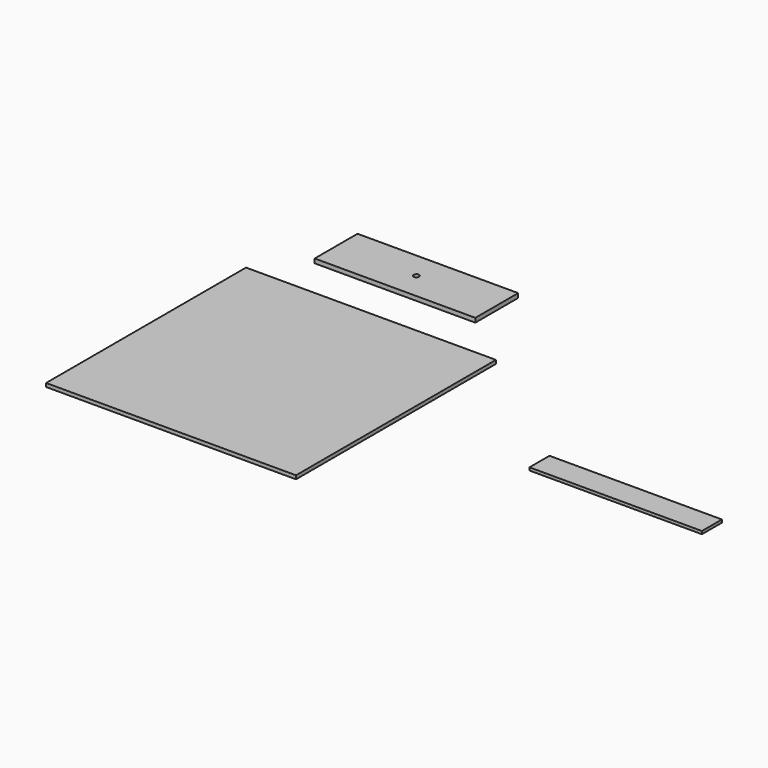
from build123d import *

# Parameters (mm, degrees)
F1_DEPTH = 10
F2_W     = 483
F2_H     = 70
F3_DEPTH = 8
F4_W     = 450
F4_H     = 150
F5_DEPTH = 12
F6_R     = 7.5
F7_DEPTH = 12.001


with BuildPart() as f1:
    # F0 (on Top) → F1 (new body)
    with BuildSketch(Plane.XY):
        Polygon((350, -350), (-350, 350), (-350, -350), align=None)
        Polygon((350, 350), (-350, 350), (350, -350), align=None)
    extrude(amount=F1_DEPTH)


with BuildPart() as f3:
    # F2 (on Top) → F3 (new body)
    with BuildSketch(Plane.XY):
        with Locations((964.260379, 36.481202)):
            Rectangle(F2_W, F2_H)
    extrude(amount=F3_DEPTH)


with BuildPart() as f5:
    # F4 (on Top) → F5 (new body)
    with BuildSketch(Plane.XY):
        with Locations((-32.22473, 549.408846)):
            Rectangle(F4_W, F4_H)
    extrude(amount=F5_DEPTH)

    # F6 (on face) → F7 (cut, through all)
    with BuildSketch(Plane.XY.offset(12)):
        with Locations((-32.22473, 549.408846)):
            Circle(F6_R)
    extrude(amount=-F7_DEPTH, mode=Mode.SUBTRACT)


solid = Compound([f1.part, f3.part, f5.part])
